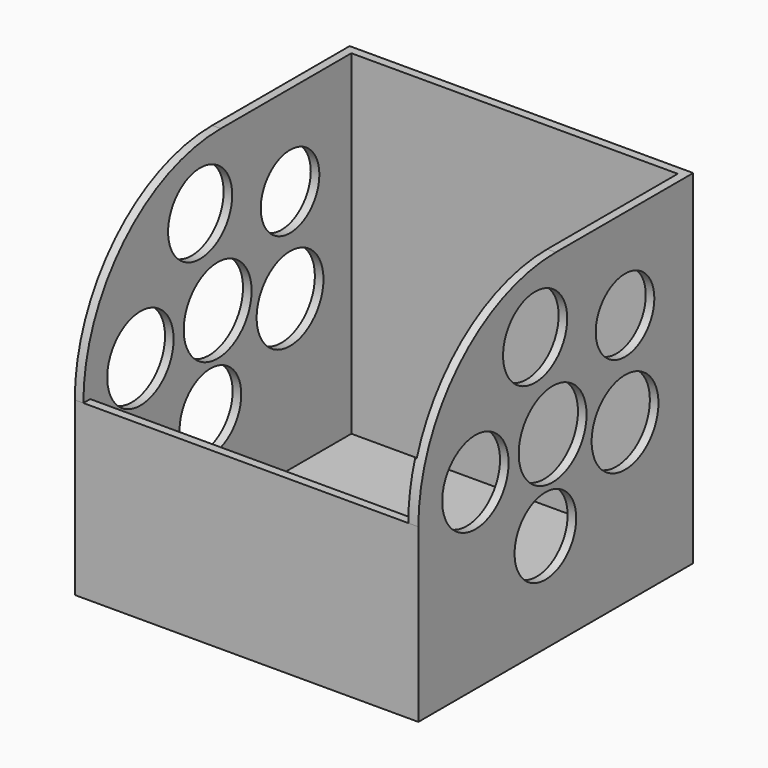
from build123d import *

# Parameters (mm, degrees)
F0_W     = 100
F0_H     = 100
F1_DEPTH = 100
F2_T     = -2.5
F3_W     = 94.5649716185
F3_H     = 2.5
F4_DEPTH = 50
F5_R     = 50
F6_R     = 12.0743721724
F6_R_2   = 11.213441631
F6_R_3   = 12.3428155876
F6_R_4   = 11.6683976529
F6_R_5   = 10.6581459458
F6_R_6   = 12.1539399679
F7_DEPTH = 100.001


with BuildPart() as f1:
    # F0 (on Top) → F1 (new body)
    with BuildSketch(Plane.XY):
        with Locations((-19.4285236971, 1.1470969766)):
            Rectangle(F0_W, F0_H)
    extrude(amount=F1_DEPTH)

    # F2
    f2_openings = [f1.faces().sort_by_distance(p)[0] for p in [
        (-19.428524, 1.147097, 100),
    ]]
    offset(amount=F2_T, openings=f2_openings)

    # F3 (on face) → F4 (cut)
    with BuildSketch(Plane.XY.offset(100)):
        with Locations((-19.6460378879, -47.6029030234)):
            Rectangle(F3_W, F3_H)
    extrude(amount=-F4_DEPTH, mode=Mode.SUBTRACT)

    # F5
    f5_edges = [f1.edges().sort_by_distance(p)[0] for p in [
        (-68.178524, -48.852903, 100),
        (29.103962, -48.852903, 100),
    ]]
    fillet(f5_edges, radius=F5_R)

    # F6 (on face) → F7 (cut, through all)
    with BuildSketch(Plane.YZ.offset(30.5714763029)):
        with Locations((-28.1003583223, 53.0040338635)):
            Circle(F6_R)
        with Locations((-2.6344081853, 28.8552865386)):
            Circle(F6_R_2)
        with Locations((0, 53.8821704686)):
            Circle(F6_R_3)
        with Locations((-6.3664885238, 81.323929131)):
            Circle(F6_R_4)
        with Locations((26.3440869749, 73.6402347684)):
            Circle(F6_R_5)
        with Locations((26.3440869749, 46.1984761059)):
            Circle(F6_R_6)
    extrude(amount=-F7_DEPTH, mode=Mode.SUBTRACT)


solid = f1.part
